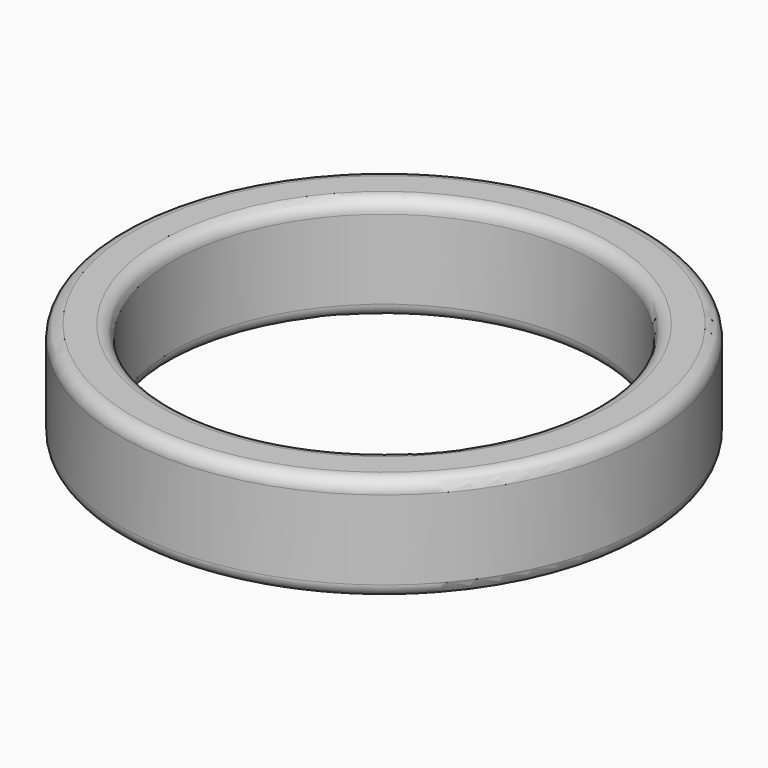
from build123d import *

# Parameters (mm, degrees)
F0_R     = 10
F0_R_2   = 8
F1_DEPTH = 2
F2_R     = 0.5


with BuildPart() as f1:
    # F0 (on Top) → F1 (new body, symmetric)
    with BuildSketch(Plane.XY):
        Circle(F0_R)
        Circle(F0_R_2, mode=Mode.SUBTRACT)
        Circle(F0_R)
        Circle(F0_R_2, mode=Mode.SUBTRACT)
    extrude(amount=F1_DEPTH, both=True)

    # F2
    f2_edges = [f1.edges().sort_by_distance(p)[0] for p in [
        (-10, 0, 2),
        (-8, 0, 2),
        (-10, 0, -2),
        (-8, 0, -2),
    ]]
    fillet(f2_edges, radius=F2_R)


solid = f1.part
